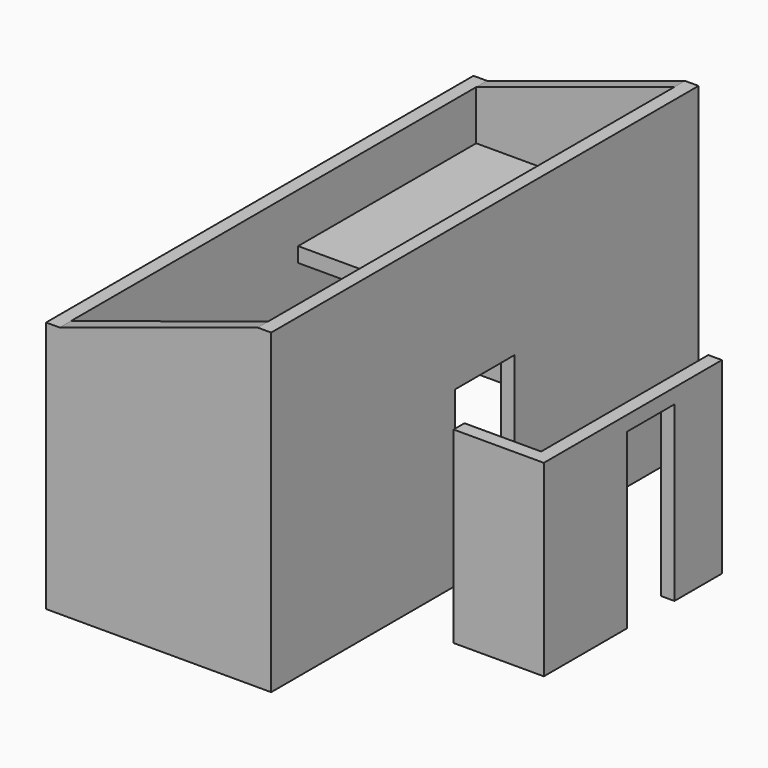
from build123d import *

# Parameters (mm, degrees)
F0_W      = 2311.4
F0_H      = 5486.4
F0_W_2    = 2032
F0_H_2    = 5207
F1_DEPTH  = 3352.8
F2_W      = 2032
F2_H      = 152.4
F3_DEPTH  = 2286
F4_DEPTH  = 139.7
F5_DEPTH  = 5473.7
F6_W      = 139.7
F6_H      = 660.4
F7_DEPTH  = 5486.4
F8_W      = 2032
F8_H      = 152.4
F9_DEPTH  = 609.6
F10_W     = 5486.4
F10_H     = 101.6
F11_DEPTH = 2311.4
F13_DEPTH = 1930.4
F14_W     = 609.6
F14_H     = 1778
F15_DEPTH = 139.7
F16_W     = 762
F16_H     = 1778
F17_DEPTH = 139.7


with BuildPart() as f1:
    # F0 (on Top) → F1 (new body)
    with BuildSketch(Plane.XY):
        with Locations((-18.584356, 333.222617)):
            Rectangle(F0_W, F0_H)
        with Locations((-18.584356, 333.222617)):
            Rectangle(F0_W_2, F0_H_2, mode=Mode.SUBTRACT)
    extrude(amount=F1_DEPTH)

    # F2 (on face) → F3 (join)
    with BuildSketch(Plane.XZ.offset(-2936.722617)):
        with Locations((-18.584356, 2108.2)):
            Rectangle(F2_W, F2_H)
    extrude(amount=F3_DEPTH)

    # F2 (on face) → F4 (cut)
    with BuildSketch(Plane.XZ.offset(-2936.722617)):
        Polygon((-1034.584356, 3352.8), (-1034.584356, 2692.4), (997.415644, 3352.8), align=None)
    extrude(amount=-F4_DEPTH, mode=Mode.SUBTRACT)

    # F2 (on face) → F5 (cut)
    with BuildSketch(Plane.XZ.offset(-2936.722617)):
        Polygon((-1034.584356, 3352.8), (-1034.584356, 2692.4), (997.415644, 3352.8), align=None)
    extrude(amount=F5_DEPTH, mode=Mode.SUBTRACT)

    # F6 (on face) → F7 (cut)
    with BuildSketch(Plane.XZ.offset(2409.977383)):
        with Locations((-1104.434356, 3022.6)):
            Rectangle(F6_W, F6_H)
    extrude(amount=-F7_DEPTH, mode=Mode.SUBTRACT)

    # F8 (on face) → F9 (join)
    with BuildSketch(Plane(origin=(0, -2270.277383, 0), x_dir=(-1, 0, 0), z_dir=(0, 1, 0))):
        with Locations((18.584356, 2108.2)):
            Rectangle(F8_W, F8_H)
    extrude(amount=F9_DEPTH)

    # F10 (on face) → F11 (cut)
    with BuildSketch(Plane.YZ.offset(1137.115644)):
        with Locations((333.222617, 50.8)):
            Rectangle(F10_W, F10_H)
    extrude(amount=-F11_DEPTH, mode=Mode.SUBTRACT)

    # F16 (on face) → F17 (cut)
    with BuildSketch(Plane.YZ.offset(1137.115644)):
        with Locations((333.222617, 990.6)):
            Rectangle(F16_W, F16_H)
    extrude(amount=-F17_DEPTH, mode=Mode.SUBTRACT)


with BuildPart() as f13:
    # F12 (on Top) → F13 (new body)
    with BuildSketch(Plane.XY):
        Polygon((2550.75182, 1609.148992), (2411.05182, 1609.148992), (2411.05182, -537.151008), (1623.65182, -537.151008), (1623.65182, -676.851008), (2550.75182, -676.851008), align=None)
    extrude(amount=F13_DEPTH)

    # F14 (on face) → F15 (cut)
    with BuildSketch(Plane.YZ.offset(2550.75182)):
        with Locations((694.748992, 889)):
            Rectangle(F14_W, F14_H)
    extrude(amount=-F15_DEPTH, mode=Mode.SUBTRACT)


solid = Compound([f1.part, f13.part])
